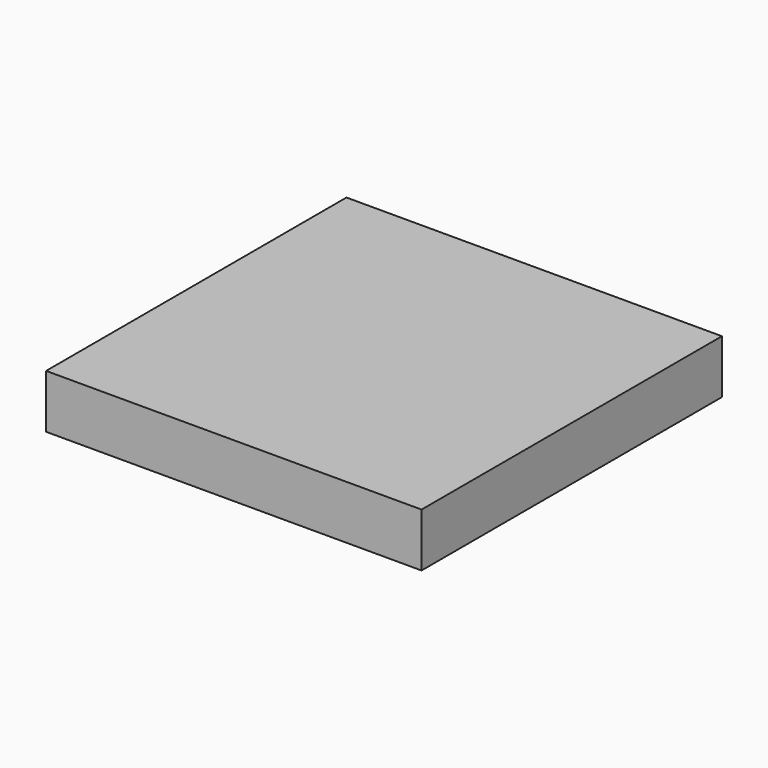
from build123d import *

# Parameters (mm, degrees)
SKETCH_W    = 70
SKETCH_H    = 70
PAD_DEPTH   = 10
SKETCH004_W = 20
SKETCH004_H = 20
SKETCH003_W = 30
SKETCH003_H = 30
FILLET_R    = 2


with BuildPart() as part:
    # Sketch → Pad (new body)
    with BuildSketch(Plane.XY):
        with Locations((-35, -35)):
            Rectangle(SKETCH_W, SKETCH_H)
    extrude(amount=PAD_DEPTH)

    # Sketch004 (on DatumPlane) → AdditiveLoft section 0
    with BuildSketch(Plane.XY.offset(-10)):
        with Locations((-35, -35)):
            Rectangle(SKETCH004_W, SKETCH004_H)
    # Sketch003 (on Face5 of Pad) → AdditiveLoft section 1
    with BuildSketch(Plane(origin=(0, 0, 0), x_dir=(1, 0, 0), z_dir=(0, 0, -1))):
        with Locations((-35, 35)):
            Rectangle(SKETCH003_W, SKETCH003_H)
    loft()

    # Fillet
    fillet_edges = [part.edges().sort_by_distance(p)[0] for p in [
        (-45, -35, -10),
        (-47.5, -22.5, -5),
        (-50, -35, 0),
        (-47.5, -47.5, -5),
        (-35, -25, -10),
        (-22.5, -22.5, -5),
        (-35, -20, 0),
        (-25, -35, -10),
        (-22.5, -47.5, -5),
        (-20, -35, 0),
        (-35, -45, -10),
        (-35, -50, 0),
    ]]
    fillet(fillet_edges, radius=FILLET_R)


solid = part.part
